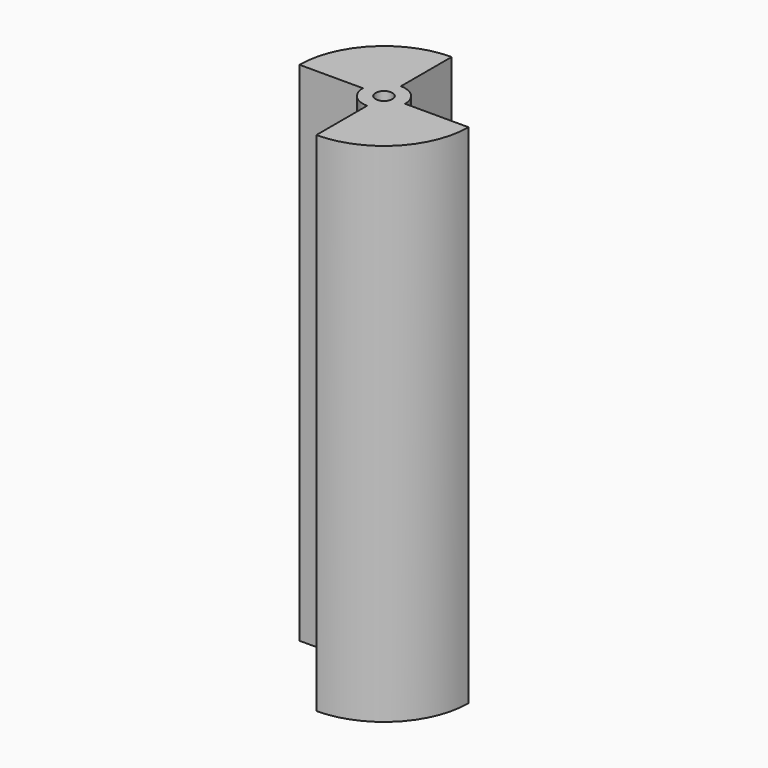
from build123d import *

# Parameters (mm, degrees)
F0_R     = 2.54
F1_DEPTH = 76.2
F3_R     = 12.7
F4_DEPTH = 50.8


with BuildPart() as f1:
    # F0 (on Top) → F1 (new body, symmetric)
    with BuildSketch(Plane.XY):
        with BuildLine():
            Line((0, 6.35), (0, 25.4))
            ThreePointArc((0, 25.4), (-17.960512, 17.960512), (-25.4, 0))
            Line((-25.4, 0), (-6.35, 0))
            ThreePointArc((-6.35, 0), (-4.490128, -4.490128), (0, -6.35))
            Line((0, -6.35), (0, -25.4))
            ThreePointArc((0, -25.4), (17.960512, -17.960512), (25.4, 0))
            Line((25.4, 0), (6.35, 0))
            ThreePointArc((6.35, 0), (4.490128, 4.490128), (0, 6.35))
        make_face()
        Circle(F0_R, mode=Mode.SUBTRACT)
    extrude(amount=F1_DEPTH, both=True)

    # F3 (on Top) → F4 (cut, symmetric)
    with BuildSketch(Plane.XY):
        Circle(F3_R)
    extrude(amount=F4_DEPTH, both=True, mode=Mode.SUBTRACT)


solid = f1.part
